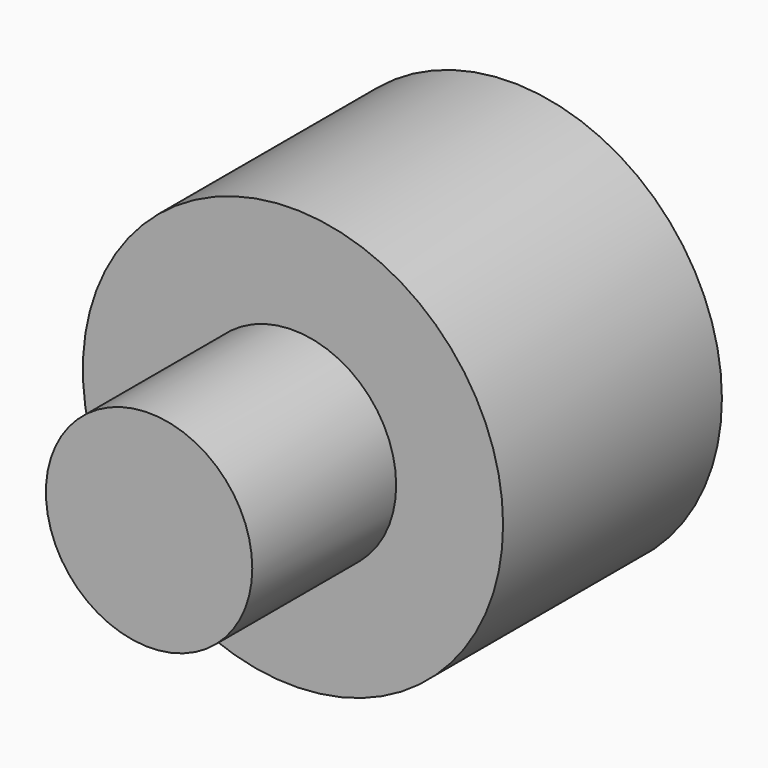
from build123d import *


with BuildPart() as f1:
    # F0 (on Top) → F1 (revolve)
    with BuildSketch(Plane.XY):
        with BuildLine():
            Line((46.264485, 44.895716), (25, 44.895716))
            ThreePointArc((25, 44.895716), (17.67767, 62.573386), (0, 69.895716))
            Line((0, 69.895716), (0, 44.895716))
            Line((0, 44.895716), (0, -15.330244))
            Line((0, -15.330244), (0, -54.933373))
            Line((0, -54.933373), (22.721613, -54.933373))
            Line((22.721613, -54.933373), (22.721613, -15.330244))
            Line((22.721613, -15.330244), (46.264485, -15.330244))
            Line((46.264485, -15.330244), (46.264485, 44.895716))
        make_face()
    revolve(axis=Axis((0, 0.173812, 0), (0, -1, 0)))


solid = f1.part
